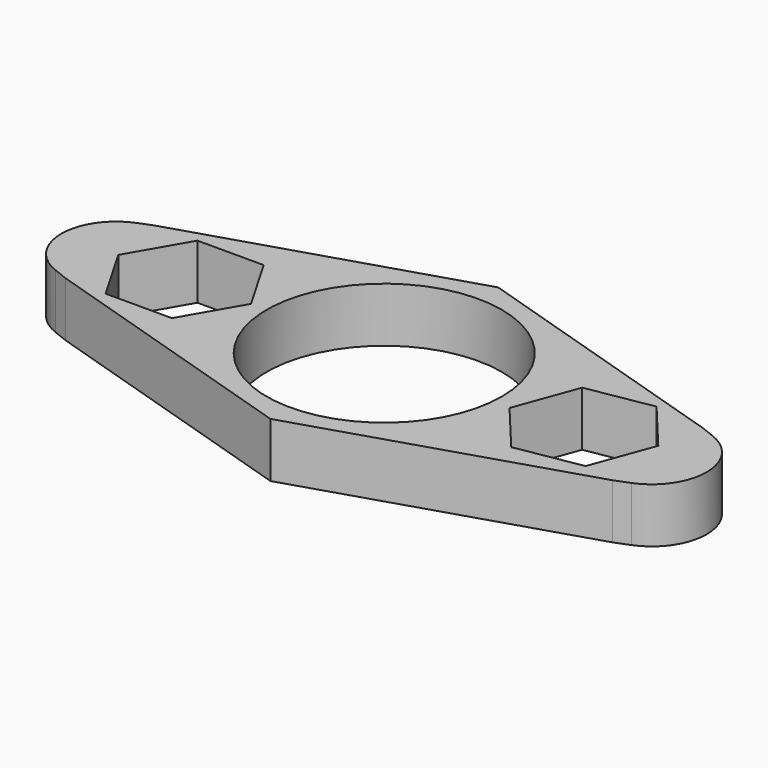
from build123d import *

# Parameters (mm, degrees)
F0_R     = 10.922
F1_DEPTH = 5.08
F2_R     = 5.08


with BuildPart() as f1:
    # F0 (on Top) → F1 (new body)
    with BuildSketch(Plane.XY):
        Polygon((-18.3388, 0), (-18.4730074397, 5.249469847), (-31.6484, 0), align=None)
        Polygon((-31.6484, 0), (-18.3388, -5.2532861009), (-18.3388, 0), align=None)
        Polygon((45.7708, 0), (32.4612, 0), (32.4612, -5.2532861009), align=None)
        Polygon((32.4612, 5.2468646365), (32.4612, 0), (45.7708, 0), align=None)
        Polygon((32.4612, -5.2532861009), (32.4612, 0), (32.4612, 5.2468646365), (7.0651705068, 13.2224646365), (-18.4730074397, 5.249469847), (-18.3388, 0), (-18.3388, -5.2532861009), (7.0651705068, -13.2288861009), align=None)
        with Locations((7.0651705068, -0.0064214644)):
            Circle(F0_R, mode=Mode.SUBTRACT)
        Polygon((-14.5603863359, -5.334), (-17.6399726717, 0), (-14.5603863359, 5.334), (-8.4012136641, 5.334), (-5.3216273283, 0), (-8.4012136641, -5.334), align=None, mode=Mode.SUBTRACT)
        Polygon((31.672139275, 1.0504209046), (31.2860665876, 0), (29.5473608256, -4.7306451338), (23.4784215506, -5.7810660385), (19.534260725, -1.0504209046), (21.6590391744, 4.7306451338), (27.7279784494, 5.7810660385), align=None, mode=Mode.SUBTRACT)
    extrude(amount=F1_DEPTH)

    # F2
    f2_edges = [f1.edges().sort_by_distance(p)[0] for p in [
        (-31.6484, 0, 2.54),
        (45.7708, 0, 2.54),
    ]]
    fillet(f2_edges, radius=F2_R)


solid = f1.part
